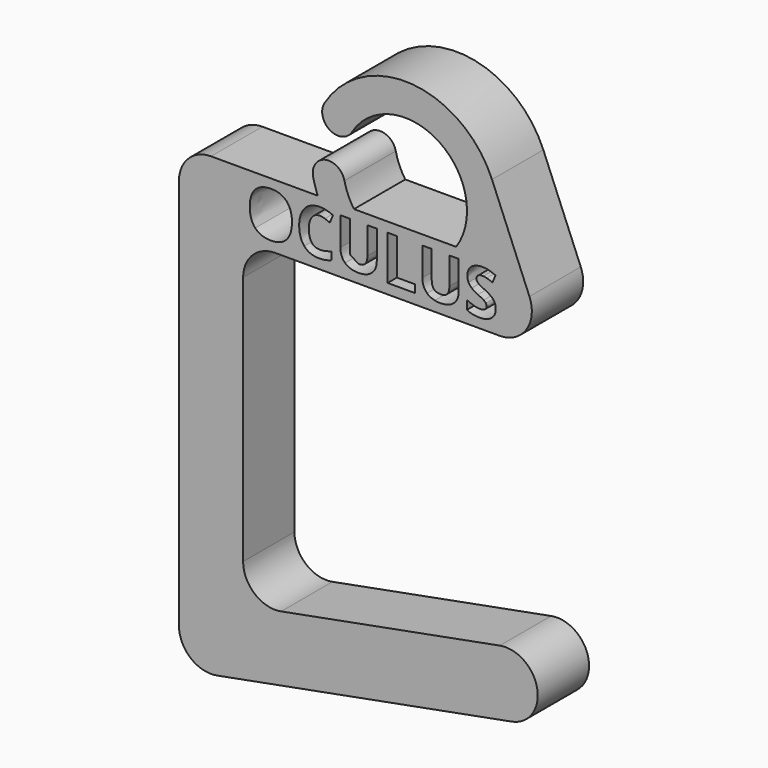
from build123d import *

# Parameters (mm, degrees)
F1_DEPTH = 6.35
F2_DEPTH = 6.35
F3_DEPTH = 6.35


with BuildPart() as f1:
    # F0 (on Front) → F1 (new body)
    with BuildSketch(Plane.XZ):
        with BuildLine():
            Line((0, -27.924359038), (0, -3.175))
            ThreePointArc((0, -3.175), (0.9299359697, -0.9299359697), (3.175, 0))
            Line((3.175, 0), (25.4, 0))
            ThreePointArc((25.4, 0), (28.0383218382, 1.4086819799), (28.3355048436, 4.3847211772))
            ThreePointArc((28.3355048436, 4.3847211772), (27.1663167672, 5.8133205854), (25.4, 6.3499974943))
            Line((25.4, 6.3499974943), (24.6597025622, 6.3499974943))
            ThreePointArc((24.6597025622, 6.3499974943), (24.4481215964, 5.8647080853), (24.2092992062, 5.3922293224))
            add(Edge.make_bspline(
                [(24.2092992062, 5.3922293224), (24.2696535561, 5.3797860417), (24.3288728795, 5.364409154)],
                knots=[0.8092197201, 0.8092197201, 0.8092197201, 1, 1, 1], degree=2))
            add(Edge.make_bspline(
                [(24.3288728795, 5.364409154), (24.6392787738, 5.2838091691), (24.9779906152, 5.1370020537)],
                knots=[0, 0, 0, 1, 1, 1], degree=2))
            Line((24.9779906152, 5.1370020537), (24.6786192426, 4.4135212366))
            add(Edge.make_bspline(
                [(24.6786192426, 4.4135212366), (24.327433594, 4.5574497811), (24.0981074464, 4.6145414371)],
                knots=[0, 0, 0, 1, 1, 1], degree=2))
            add(Edge.make_bspline(
                [(24.0981074464, 4.6145414371), (23.9334446517, 4.6555348944), (23.7727394349, 4.6670938658)],
                knots=[0, 0, 0, 0.7180288705, 0.7180288705, 0.7180288705], degree=2))
            ThreePointArc((23.7727394349, 4.6670938658), (23.5089363239, 4.2912914049), (23.2269265125, 3.9289517337))
            add(Edge.make_bspline(
                [(23.2269265125, 3.9289517337), (23.2738656317, 3.8820268113), (23.3396040169, 3.836847535)],
                knots=[0.4709538131, 0.4709538131, 0.4709538131, 1, 1, 1], degree=2))
            add(Edge.make_bspline(
                [(23.3396040169, 3.836847535), (23.463862327, 3.7514499319), (23.9282717639, 3.5297999734)],
                knots=[0, 0, 0, 1, 1, 1], degree=2))
            add(Edge.make_bspline(
                [(23.9282717639, 3.5297999734), (24.5433264108, 3.235226219), (24.7712132729, 2.9401727027)],
                knots=[0, 0, 0, 1, 1, 1], degree=2))
            add(Edge.make_bspline(
                [(24.7712132729, 2.9401727027), (24.999100135, 2.6451191865), (24.999100135, 2.2162121239)],
                knots=[0, 0, 0, 1, 1, 1], degree=2))
            add(Edge.make_bspline(
                [(24.999100135, 2.2162121239), (24.999100135, 1.6222669969), (24.5716323579, 1.2801968228)],
                knots=[0, 0, 0, 1, 1, 1], degree=2))
            add(Edge.make_bspline(
                [(24.5716323579, 1.2801968228), (24.1441645807, 0.9381266487), (23.3832623421, 0.9381266487)],
                knots=[0, 0, 0, 1, 1, 1], degree=2))
            add(Edge.make_bspline(
                [(23.3832623421, 0.9381266487), (22.6808910449, 0.9381266487), (22.1416387648, 1.2029551706)],
                knots=[0, 0, 0, 1, 1, 1], degree=2))
            Line((22.1416387648, 1.2029551706), (22.1416387648, 2.0665264376))
            add(Edge.make_bspline(
                [(22.1416387648, 2.0665264376), (22.5849386819, 1.8679050462), (22.8924660053, 1.7873050612)],
                knots=[0, 0, 0, 1, 1, 1], degree=2))
            add(Edge.make_bspline(
                [(22.8924660053, 1.7873050612), (23.1999933287, 1.7067050763), (23.4552266143, 1.7067050763)],
                knots=[0, 0, 0, 1, 1, 1], degree=2))
            add(Edge.make_bspline(
                [(23.4552266143, 1.7067050763), (23.7603551287, 1.7067050763), (23.9239539076, 1.8232871974)],
                knots=[0, 0, 0, 1, 1, 1], degree=2))
            add(Edge.make_bspline(
                [(23.9239539076, 1.8232871974), (24.0875526865, 1.9398693184), (24.0875526865, 2.1711145133)],
                knots=[0, 0, 0, 1, 1, 1], degree=2))
            add(Edge.make_bspline(
                [(24.0875526865, 2.1711145133), (24.0875526865, 2.2996906797), (24.0155884143, 2.4004406608)],
                knots=[0, 0, 0, 1, 1, 1], degree=2))
            add(Edge.make_bspline(
                [(24.0155884143, 2.4004406608), (23.943624142, 2.501190642), (23.8040134538, 2.5937846723)],
                knots=[0, 0, 0, 1, 1, 1], degree=2))
            add(Edge.make_bspline(
                [(23.8040134538, 2.5937846723), (23.6644027657, 2.6863787026), (23.235495703, 2.8907572358)],
                knots=[0, 0, 0, 1, 1, 1], degree=2))
            add(Edge.make_bspline(
                [(23.235495703, 2.8907572358), (22.8344148257, 3.0797833909), (22.6333946252, 3.2534571679)],
                knots=[0, 0, 0, 1, 1, 1], degree=2))
            add(Edge.make_bspline(
                [(22.6333946252, 3.2534571679), (22.6288147641, 3.257413993), (22.6242769891, 3.2614007016)],
                knots=[0, 0, 0, 0.0227830887, 0.0227830887, 0.0227830887], degree=2))
            ThreePointArc((22.6242769891, 3.2614007016), (21.9870617248, 2.6775724639), (21.2984563265, 2.1553452055))
            add(Edge.make_bspline(
                [(21.2984563265, 2.1553452055), (21.245373144, 1.9047439179), (21.1202258606, 1.6942312691)],
                knots=[0.4241656799, 0.4241656799, 0.4241656799, 1, 1, 1], degree=2))
            add(Edge.make_bspline(
                [(21.1202258606, 1.6942312691), (20.9028937584, 1.3286527661), (20.491737883, 1.1333897074)],
                knots=[0, 0, 0, 1, 1, 1], degree=2))
            add(Edge.make_bspline(
                [(20.491737883, 1.1333897074), (20.0805820075, 0.9381266487), (19.5202202076, 0.9381266487)],
                knots=[0, 0, 0, 1, 1, 1], degree=2))
            add(Edge.make_bspline(
                [(19.5202202076, 0.9381266487), (19.2183910924, 0.9381266487), (18.9646968143, 0.9934174908)],
                knots=[0, 0, 0, 0.3570504195, 0.3570504195, 0.3570504195], degree=2))
            ThreePointArc((18.9646968143, 0.9934174908), (15.7197063364, 0.5213711285), (12.5123242626, 1.2036402853))
            add(Edge.make_bspline(
                [(12.5123242626, 1.2036402853), (12.4488479567, 1.1661220256), (12.3799251147, 1.1333897074)],
                knots=[0.8323680965, 0.8323680965, 0.8323680965, 1, 1, 1], degree=2))
            add(Edge.make_bspline(
                [(12.3799251147, 1.1333897074), (11.9687692392, 0.9381266487), (11.4084074393, 0.9381266487)],
                knots=[0, 0, 0, 1, 1, 1], degree=2))
            add(Edge.make_bspline(
                [(11.4084074393, 0.9381266487), (10.5630671212, 0.9381266487), (10.0952993516, 1.3718313294)],
                knots=[0, 0, 0, 1, 1, 1], degree=2))
            add(Edge.make_bspline(
                [(10.0952993516, 1.3718313294), (9.627531582, 1.8055360102), (9.627531582, 2.5578025362)],
                knots=[0, 0, 0, 1, 1, 1], degree=2))
            Line((9.627531582, 2.5578025362), (9.627531582, 3.0605347291))
            ThreePointArc((9.627531582, 3.0605347291), (8.9862608916, 3.730177951), (8.4147738081, 4.4602825025))
            add(Edge.make_bspline(
                [(8.4147738081, 4.4602825025), (8.2553717953, 4.5288191765), (8.0951723448, 4.5847962046)],
                knots=[0.3553773167, 0.3553773167, 0.3553773167, 1, 1, 1], degree=2))
            add(Edge.make_bspline(
                [(8.0951723448, 4.5847962046), (7.8466557246, 4.6716330931), (7.6067748171, 4.6716330931)],
                knots=[0, 0, 0, 1, 1, 1], degree=2))
            add(Edge.make_bspline(
                [(7.6067748171, 4.6716330931), (7.0819153915, 4.6716330931), (6.7940583025, 4.2772688812)],
                knots=[0, 0, 0, 1, 1, 1], degree=2))
            add(Edge.make_bspline(
                [(6.7940583025, 4.2772688812), (6.5062012135, 3.8829046692), (6.5062012135, 3.1786143248)],
                knots=[0, 0, 0, 1, 1, 1], degree=2))
            add(Edge.make_bspline(
                [(6.5062012135, 3.1786143248), (6.5062012135, 1.7124622181), (7.6067748171, 1.7124622181)],
                knots=[0, 0, 0, 1, 1, 1], degree=2))
            add(Edge.make_bspline(
                [(7.6067748171, 1.7124622181), (8.0683056832, 1.7124622181), (8.7246198461, 1.9427478893)],
                knots=[0, 0, 0, 1, 1, 1], degree=2))
            Line((8.7246198461, 1.9427478893), (8.7246198461, 1.1636147017))
            add(Edge.make_bspline(
                [(8.7246198461, 1.1636147017), (8.185367566, 0.9381266487), (7.5194581668, 0.9381266487)],
                knots=[0, 0, 0, 1, 1, 1], degree=2))
            add(Edge.make_bspline(
                [(7.5194581668, 0.9381266487), (6.5628131076, 0.9381266487), (6.056184631, 1.5186384448)],
                knots=[0, 0, 0, 1, 1, 1], degree=2))
            add(Edge.make_bspline(
                [(6.056184631, 1.5186384448), (5.5495561543, 2.099150241), (5.5495561543, 3.1843714666)],
                knots=[0, 0, 0, 1, 1, 1], degree=2))
            add(Edge.make_bspline(
                [(5.5495561543, 3.1843714666), (5.5495561543, 3.8685118148), (5.7985525363, 4.3828164805)],
                knots=[0, 0, 0, 1, 1, 1], degree=2))
            add(Edge.make_bspline(
                [(5.7985525363, 4.3828164805), (6.0475489183, 4.8971211462), (6.5138774025, 5.1710651425)],
                knots=[0, 0, 0, 1, 1, 1], degree=2))
            add(Edge.make_bspline(
                [(6.5138774025, 5.1710651425), (6.9802058867, 5.4450091389), (7.6067748171, 5.4450091389)],
                knots=[0, 0, 0, 1, 1, 1], degree=2))
            add(Edge.make_bspline(
                [(7.6067748171, 5.4450091389), (7.7094791305, 5.4450091389), (7.8123574548, 5.4370294964)],
                knots=[0, 0, 0, 0.160957554, 0.160957554, 0.160957554], degree=2))
            ThreePointArc((7.8123574548, 5.4370294964), (7.5868512947, 5.8877424549), (7.3860641491, 6.3499974943))
            Line((7.3860641491, 6.3499974943), (-3.1749974943, 6.3499974943))
            ThreePointArc((-3.1749974943, 6.3499974943), (-5.4200615245, 5.4200615245), (-6.3499974943, 3.1749974943))
            Line((-6.3499974943, 3.1749974943), (-6.3499974943, -35.5756379428))
            ThreePointArc((-6.3499974943, -35.5756379428), (-5.2026662772, -38.0188293612), (-2.5898813955, -38.6962571363))
            Line((-2.5898813955, -38.6962571363), (26.5702317358, -33.2287359242))
            ThreePointArc((26.5702317358, -33.2287359242), (29.10573383, -29.5230020942), (25.4, -26.9875))
            Line((25.4, -26.9875), (3.7601160988, -31.0449782315))
            ThreePointArc((3.7601160988, -31.0449782315), (1.1473312171, -30.3675504563), (0, -27.924359038))
        make_face()
        with BuildLine():
            add(Edge.make_bspline(
                [(4.300256388, 4.8697747227), (4.8356705736, 4.2878236411), (4.8356705736, 3.1968452738)],
                knots=[0, 0, 0, 1, 1, 1], degree=2))
            add(Edge.make_bspline(
                [(4.8356705736, 3.1968452738), (4.8356705736, 2.1077859537), (4.2959385317, 1.5229563012)],
                knots=[0, 0, 0, 1, 1, 1], degree=2))
            add(Edge.make_bspline(
                [(4.2959385317, 1.5229563012), (3.7562064898, 0.9381266487), (2.7487066783, 0.9381266487)],
                knots=[0, 0, 0, 1, 1, 1], degree=2))
            add(Edge.make_bspline(
                [(2.7487066783, 0.9381266487), (1.7412068667, 0.9381266487), (1.2014748249, 1.5229563012)],
                knots=[0, 0, 0, 1, 1, 1], degree=2))
            add(Edge.make_bspline(
                [(1.2014748249, 1.5229563012), (0.661742783, 2.1077859537), (0.661742783, 3.2026024155)],
                knots=[0, 0, 0, 1, 1, 1], degree=2))
            add(Edge.make_bspline(
                [(0.661742783, 3.2026024155), (0.661742783, 4.2974188774), (1.2029141103, 4.8745723409)],
                knots=[0, 0, 0, 1, 1, 1], degree=2))
            add(Edge.make_bspline(
                [(1.2029141103, 4.8745723409), (1.7440854376, 5.4517258043), (2.7544638201, 5.4517258043)],
                knots=[0, 0, 0, 1, 1, 1], degree=2))
            add(Edge.make_bspline(
                [(2.7544638201, 5.4517258043), (3.7648422025, 5.4517258043), (4.300256388, 4.8697747227)],
                knots=[0, 0, 0, 1, 1, 1], degree=2))
        make_face(mode=Mode.SUBTRACT)
        with BuildLine():
            ThreePointArc((25.4, 6.3499974943), (27.1663167672, 5.8133205854), (28.3355048436, 4.3847211772))
            Line((28.3355048436, 4.3847211772), (24.6309483516, 13.3741754714))
            ThreePointArc((24.6309483516, 13.3741754714), (25.3331613779, 9.8649022115), (24.6597025622, 6.3499974943))
            Line((24.6597025622, 6.3499974943), (25.4, 6.3499974943))
        make_face()
        with BuildLine():
            ThreePointArc((24.6597025622, 6.3499974943), (25.3331613779, 9.8649022115), (24.6309483516, 13.3741754714))
            ThreePointArc((24.6309483516, 13.3741754714), (16.7282969853, 19.1103837974), (8.0496500818, 14.6341049299))
            Line((8.0496500818, 14.6341049299), (10.7686670088, 12.9947233542))
            ThreePointArc((10.7686670088, 12.9947233542), (19.3467369323, 14.9837839893), (21.0780302585, 6.3499974943))
            Line((21.0780302585, 6.3499974943), (24.6597025622, 6.3499974943))
        make_face()
        with BuildLine():
            ThreePointArc((24.2092992062, 5.3922293224), (24.4481215964, 5.8647080853), (24.6597025622, 6.3499974943))
            Line((24.6597025622, 6.3499974943), (21.0780302585, 6.3499974943))
            ThreePointArc((21.0780302585, 6.3499974943), (20.0071469853, 5.1611452863), (18.6652846532, 4.2896144269))
            Line((18.6652846532, 4.2896144269), (18.6652846532, 2.6988525098))
            add(Edge.make_bspline(
                [(18.6652846532, 2.6988525098), (18.6652846532, 2.1922240331), (18.8691834246, 1.9552216965)],
                knots=[0, 0, 0, 1, 1, 1], degree=2))
            add(Edge.make_bspline(
                [(18.8691834246, 1.9552216965), (19.073082196, 1.7182193599), (19.5442082983, 1.7182193599)],
                knots=[0, 0, 0, 1, 1, 1], degree=2))
            add(Edge.make_bspline(
                [(19.5442082983, 1.7182193599), (19.9999820226, 1.7182193599), (20.2053200794, 1.9566609819)],
                knots=[0, 0, 0, 1, 1, 1], degree=2))
            add(Edge.make_bspline(
                [(20.2053200794, 1.9566609819), (20.4106581362, 2.195102604), (20.4106581362, 2.7046096515)],
                knots=[0, 0, 0, 1, 1, 1], degree=2))
            Line((20.4106581362, 2.7046096515), (20.4106581362, 5.382640103))
            Line((20.4106581362, 5.382640103), (21.3375579628, 5.382640103))
            Line((21.3375579628, 5.382640103), (21.3375579628, 2.5462882526))
            add(Edge.make_bspline(
                [(21.3375579628, 2.5462882526), (21.3375579628, 2.3399407772), (21.2984563265, 2.1553452055)],
                knots=[0, 0, 0, 0.4241656799, 0.4241656799, 0.4241656799], degree=2))
            ThreePointArc((21.2984563265, 2.1553452055), (21.9870617248, 2.6775724639), (22.6242769891, 3.2614007016))
            add(Edge.make_bspline(
                [(22.6242769891, 3.2614007016), (22.4296418107, 3.4323994247), (22.3124339709, 3.6583761398)],
                knots=[0.0227830887, 0.0227830887, 0.0227830887, 1, 1, 1], degree=2))
            add(Edge.make_bspline(
                [(22.3124339709, 3.6583761398), (22.1924935172, 3.8896213346), (22.1924935172, 4.1976284199)],
                knots=[0, 0, 0, 1, 1, 1], degree=2))
            add(Edge.make_bspline(
                [(22.1924935172, 4.1976284199), (22.1924935172, 4.7800592633), (22.5868577291, 5.1125342011)],
                knots=[0, 0, 0, 1, 1, 1], degree=2))
            add(Edge.make_bspline(
                [(22.5868577291, 5.1125342011), (22.9812219411, 5.4450091389), (23.6768765729, 5.4450091389)],
                knots=[0, 0, 0, 1, 1, 1], degree=2))
            add(Edge.make_bspline(
                [(23.6768765729, 5.4450091389), (23.9532982707, 5.4450091389), (24.2092992062, 5.3922293224)],
                knots=[0, 0, 0, 0.8092197201, 0.8092197201, 0.8092197201], degree=2))
        make_face()
        with BuildLine():
            Line((10.7686670088, 12.9947233542), (8.0496500818, 14.6341049299))
            ThreePointArc((8.0496500818, 14.6341049299), (8.5894677574, 12.4549056786), (10.7686670088, 12.9947233542))
        make_face()
        with BuildLine():
            ThreePointArc((18.6652846532, 4.2896144269), (20.0071469853, 5.1611452863), (21.0780302585, 6.3499974943))
            Line((21.0780302585, 6.3499974943), (10.9677364527, 6.3499974943))
            ThreePointArc((10.9677364527, 6.3499974943), (11.5778998389, 5.5977571956), (12.298845368, 4.9509168992))
            Line((12.298845368, 4.9509168992), (12.298845368, 5.382640103))
            Line((12.298845368, 5.382640103), (13.2257451946, 5.382640103))
            Line((13.2257451946, 5.382640103), (13.2257451946, 4.3661475476))
            ThreePointArc((13.2257451946, 4.3661475476), (13.7525055933, 4.1269669424), (14.2994521366, 3.9384640026))
            Line((14.2994521366, 3.9384640026), (14.2994521366, 5.382640103))
            Line((14.2994521366, 5.382640103), (15.2292305341, 5.382640103))
            Line((15.2292305341, 5.382640103), (15.2292305341, 3.7429825105))
            ThreePointArc((15.2292305341, 3.7429825105), (16.4943163395, 3.7095725493), (17.7393443502, 3.9364283919))
            Line((17.7393443502, 3.9364283919), (17.7393443502, 5.382640103))
            Line((17.7393443502, 5.382640103), (18.6652846532, 5.382640103))
            Line((18.6652846532, 5.382640103), (18.6652846532, 4.2896144269))
        make_face()
        with BuildLine():
            ThreePointArc((12.298845368, 4.9509168992), (11.5778998389, 5.5977571956), (10.9677364527, 6.3499974943))
            Line((10.9677364527, 6.3499974943), (7.3860641491, 6.3499974943))
            ThreePointArc((7.3860641491, 6.3499974943), (7.5868512947, 5.8877424549), (7.8123574548, 5.4370294964))
            add(Edge.make_bspline(
                [(7.8123574548, 5.4370294964), (8.3486434425, 5.3954330718), (8.8896579105, 5.1370020537)],
                knots=[0.160957554, 0.160957554, 0.160957554, 1, 1, 1], degree=2))
            Line((8.8896579105, 5.1370020537), (8.5902865379, 4.3808974332))
            add(Edge.make_bspline(
                [(8.5902865379, 4.3808974332), (8.5026513541, 4.422498571), (8.4147738081, 4.4602825025)],
                knots=[0, 0, 0, 0.3553773167, 0.3553773167, 0.3553773167], degree=2))
            ThreePointArc((8.4147738081, 4.4602825025), (8.9862608916, 3.730177951), (9.627531582, 3.0605347291))
            Line((9.627531582, 3.0605347291), (9.627531582, 5.382640103))
            Line((9.627531582, 5.382640103), (10.5534718849, 5.382640103))
            Line((10.5534718849, 5.382640103), (10.5534718849, 2.6988525098))
            add(Edge.make_bspline(
                [(10.5534718849, 2.6988525098), (10.5534718849, 2.4420855302), (10.6058456456, 2.2545751472)],
                knots=[0, 0, 0, 0.5068151345, 0.5068151345, 0.5068151345], degree=2))
            ThreePointArc((10.6058456456, 2.2545751472), (11.0194417104, 1.9751463982), (11.447418588, 1.7182847181))
            add(Edge.make_bspline(
                [(11.447418588, 1.7182847181), (11.8915688592, 1.7221670319), (12.0935073111, 1.9566609819)],
                knots=[0.0165561363, 0.0165561363, 0.0165561363, 1, 1, 1], degree=2))
            add(Edge.make_bspline(
                [(12.0935073111, 1.9566609819), (12.298845368, 2.195102604), (12.298845368, 2.7046096515)],
                knots=[0, 0, 0, 1, 1, 1], degree=2))
            Line((12.298845368, 2.7046096515), (12.298845368, 4.9509168992))
        make_face()
        with BuildLine():
            Line((7.3860641491, 6.3499974943), (10.9677364527, 6.3499974943))
            ThreePointArc((10.9677364527, 6.3499974943), (10.3934926563, 7.3870039676), (10.0293850932, 8.5150837723))
            Line((10.0293850932, 8.5150837723), (6.9277954076, 7.8362859952))
            ThreePointArc((6.9277954076, 7.8362859952), (7.1258391154, 7.0835555312), (7.3860641491, 6.3499974943))
        make_face()
        with BuildLine():
            Line((6.9277954076, 7.8362859952), (10.0293850932, 8.5150837723))
            ThreePointArc((10.0293850932, 8.5150837723), (8.1391913619, 9.7264797266), (6.9277954076, 7.8362859952))
        make_face()
    extrude(amount=F1_DEPTH)

    # F0 (on Front) → F2 (join)
    with BuildSketch(Plane.XZ):
        with BuildLine():
            Line((17.7393443502, 2.5578025362), (17.7393443502, 3.9364283919))
            ThreePointArc((17.7393443502, 3.9364283919), (16.4943163395, 3.7095725493), (15.2292305341, 3.7429825105))
            Line((15.2292305341, 3.7429825105), (15.2292305341, 1.7661955414))
            Line((15.2292305341, 1.7661955414), (17.0072278205, 1.7661955414))
            Line((17.0072278205, 1.7661955414), (17.0072278205, 0.9985766374))
            Line((17.0072278205, 0.9985766374), (14.2994521366, 0.9985766374))
            Line((14.2994521366, 0.9985766374), (14.2994521366, 3.9384640026))
            ThreePointArc((14.2994521366, 3.9384640026), (13.7525055933, 4.1269669424), (13.2257451946, 4.3661475476))
            Line((13.2257451946, 4.3661475476), (13.2257451946, 2.5462882526))
            add(Edge.make_bspline(
                [(13.2257451946, 2.5462882526), (13.2257451946, 2.0598097722), (13.0084130924, 1.6942312691)],
                knots=[0, 0, 0, 1, 1, 1], degree=2))
            add(Edge.make_bspline(
                [(13.0084130924, 1.6942312691), (12.8275127842, 1.3899353864), (12.5123242626, 1.2036402853)],
                knots=[0, 0, 0, 0.8323680965, 0.8323680965, 0.8323680965], degree=2))
            ThreePointArc((12.5123242626, 1.2036402853), (15.7197063364, 0.5213711285), (18.9646968143, 0.9934174908))
            add(Edge.make_bspline(
                [(18.9646968143, 0.9934174908), (18.5078632111, 1.0929810869), (18.2071121199, 1.3718313294)],
                knots=[0.3570504195, 0.3570504195, 0.3570504195, 1, 1, 1], degree=2))
            add(Edge.make_bspline(
                [(18.2071121199, 1.3718313294), (17.7393443502, 1.8055360102), (17.7393443502, 2.5578025362)],
                knots=[0, 0, 0, 1, 1, 1], degree=2))
        make_face()
    extrude(amount=F2_DEPTH)

    # F0 (on Front) → F3 (join)
    with BuildSketch(Plane.XZ):
        with BuildLine():
            ThreePointArc((23.2269265125, 3.9289517337), (23.5089363239, 4.2912914049), (23.7727394349, 4.6670938658))
            add(Edge.make_bspline(
                [(23.7727394349, 4.6670938658), (23.7096302295, 4.6716330931), (23.6471313403, 4.6716330931)],
                knots=[0.7180288705, 0.7180288705, 0.7180288705, 1, 1, 1], degree=2))
            add(Edge.make_bspline(
                [(23.6471313403, 4.6716330931), (23.3832623421, 4.6716330931), (23.2422123684, 4.5488140685)],
                knots=[0, 0, 0, 1, 1, 1], degree=2))
            add(Edge.make_bspline(
                [(23.2422123684, 4.5488140685), (23.1011623948, 4.4259950438), (23.1011623948, 4.228333176)],
                knots=[0, 0, 0, 1, 1, 1], degree=2))
            add(Edge.make_bspline(
                [(23.1011623948, 4.228333176), (23.1011623948, 4.1055141514), (23.1582540508, 4.0138796447)],
                knots=[0, 0, 0, 1, 1, 1], degree=2))
            add(Edge.make_bspline(
                [(23.1582540508, 4.0138796447), (23.1851415839, 3.9707240244), (23.2269265125, 3.9289517337)],
                knots=[0, 0, 0, 0.4709538131, 0.4709538131, 0.4709538131], degree=2))
        make_face()
    extrude(amount=F3_DEPTH)


solid = f1.part
